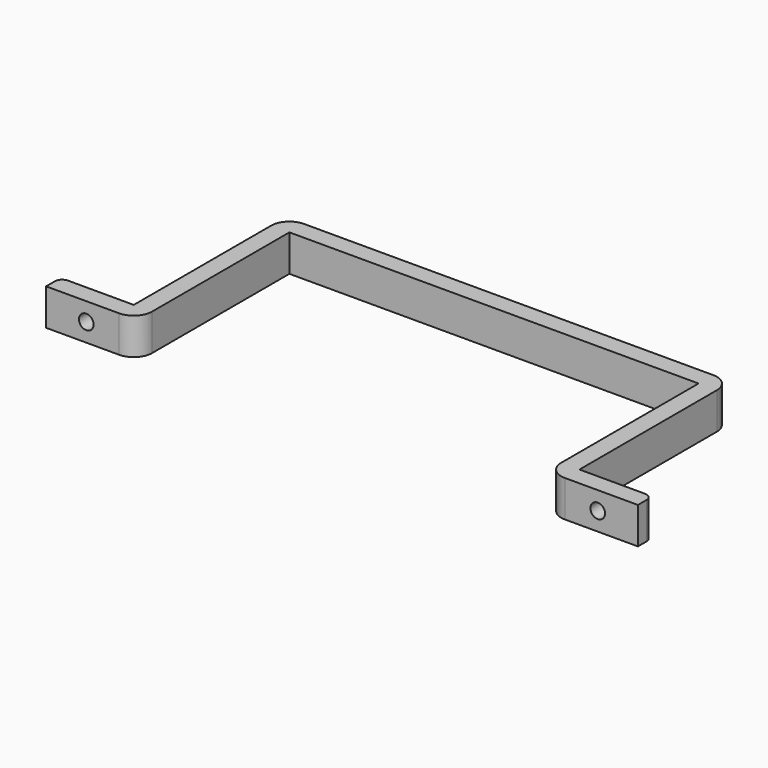
from build123d import *

# Parameters (mm, degrees)
F1_DEPTH = 10
F2_R     = 2
F3_R     = 2
F4_DEPTH = 25


with BuildPart() as f1:
    # F0 (on Top) → F1 (new body)
    with BuildSketch(Plane.XY):
        with BuildLine():
            Line((-49.068435, 5), (-49.068435, 52))
            Line((-49.068435, 52), (62.931565, 52))
            Line((62.931565, 52), (62.931565, 5))
            ThreePointArc((62.931565, 5), (64.396032, 1.464466), (67.931565, 0))
            Line((67.931565, 0), (87.931565, 0))
            Line((87.931565, 0), (87.931565, 3))
            ThreePointArc((87.931565, 3), (87.345779, 4.414214), (85.931565, 5))
            Line((85.931565, 5), (67.931565, 5))
            Line((67.931565, 5), (67.931565, 52))
            ThreePointArc((67.931565, 52), (66.467099, 55.535534), (62.931565, 57))
            Line((62.931565, 57), (-49.068435, 57))
            ThreePointArc((-49.068435, 57), (-52.603968, 55.535534), (-54.068435, 52))
            Line((-54.068435, 52), (-54.068435, 5))
            Line((-54.068435, 5), (-72.068435, 5))
            ThreePointArc((-72.068435, 5), (-73.482648, 4.414214), (-74.068435, 3))
            Line((-74.068435, 3), (-74.068435, 0))
            Line((-74.068435, 0), (-54.068435, 0))
            ThreePointArc((-54.068435, 0), (-50.532901, 1.464466), (-49.068435, 5))
        make_face()
    extrude(amount=F1_DEPTH)

    # F2 (on face) + F3 (on face) → F4 (cut)
    with BuildSketch(Plane(origin=(0, 5, 0), x_dir=(-1, 0, 0), z_dir=(0, 1, 0))):
        with Locations((63.068435, 5)):
            Circle(F2_R)
    with BuildSketch(Plane(origin=(0, 5, 0), x_dir=(-1, 0, 0), z_dir=(0, 1, 0))):
        with Locations((-76.931565, 5)):
            Circle(F3_R)
    extrude(amount=-F4_DEPTH, mode=Mode.SUBTRACT)


solid = f1.part
